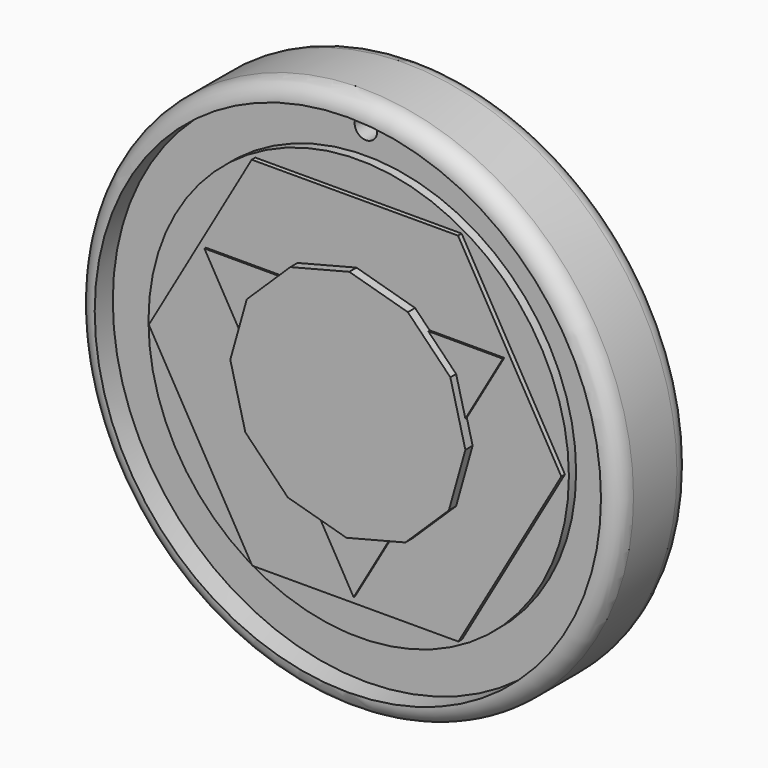
from build123d import *

# Parameters (mm, degrees)
F0_R      = 76.2
F1_DEPTH  = 25.4
F2_R      = 5.08
F1_FACE_R = 71.12
F3_DEPTH  = 6.35
F4_R      = 3.175
F5_DEPTH  = 25.4
F6_R      = 59.059026
F7_DEPTH  = 21.59
F9_DEPTH  = 22.86
F11_DEPTH = 23.368
F13_DEPTH = 25.4


with BuildPart() as f1:
    # F0 (on Front) → F1 (new body)
    with BuildSketch(Plane.XZ):
        Circle(F0_R)
    extrude(amount=F1_DEPTH)

    # F2
    f2_edges = [f1.edges().sort_by_distance(p)[0] for p in [
        (76.2, -12.7, 0),
        (-76.2, 0, 0),
        (-76.2, -25.4, 0),
    ]]
    fillet(f2_edges, radius=F2_R)

    # F1_face (on face) → F3 (cut)
    with BuildSketch(Plane.XZ.offset(25.4)):
        Circle(F1_FACE_R)
    extrude(amount=-F3_DEPTH, mode=Mode.SUBTRACT)

    # F4 (on Front) → F5 (cut)
    with BuildSketch(Plane.XZ):
        with Locations((0, 66.04)):
            Circle(F4_R)
    extrude(amount=F5_DEPTH, mode=Mode.SUBTRACT)

    # F6 (on Front) → F7 (join)
    with BuildSketch(Plane.XZ):
        Circle(F6_R)
    extrude(amount=F7_DEPTH)

    # F8 (on Front) → F9 (join)
    with BuildSketch(Plane.XZ):
        Polygon((29.037268, -50.146991), (57.947202, 0.073516), (28.909934, 50.220507), (-29.037268, 50.146991), (-57.947202, -0.073516), (-28.909934, -50.220507), align=None)
    extrude(amount=F9_DEPTH)

    # F10 (on Front) → F11 (join)
    with BuildSketch(Plane.XZ):
        Polygon((-41.918568, 24.201697), (0, -48.403393), (41.918568, 24.201697), align=None)
    extrude(amount=F11_DEPTH)

    # F12 (on Front) → F13 (join)
    with BuildSketch(Plane.XZ):
        Polygon((33.022074, -0.404168), (28.800039, 16.161017), (16.861057, 28.395871), (0.404168, 33.022074), (-16.161017, 28.800039), (-28.395871, 16.861057), (-33.022074, 0.404168), (-28.800039, -16.161017), (-16.861057, -28.395871), (-0.404168, -33.022074), (16.161017, -28.800039), (28.395871, -16.861057), align=None)
    extrude(amount=F13_DEPTH)


solid = f1.part
